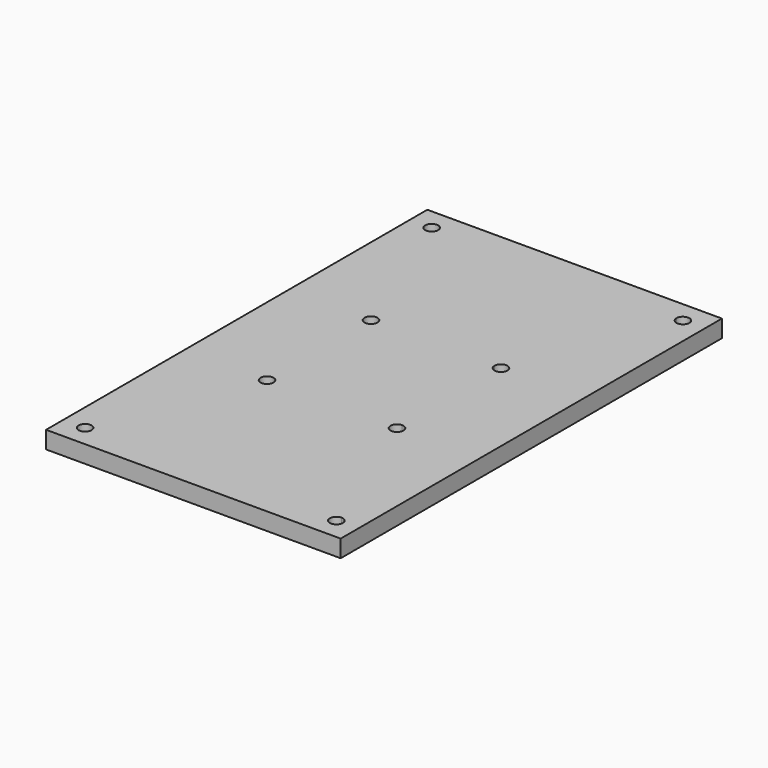
from build123d import *

# Parameters (mm, degrees)
F0_W     = 68
F0_H     = 110
F0_R     = 1.5
F1_DEPTH = 4


with BuildPart() as f1:
    # F0 (on Top) → F1 (new body)
    with BuildSketch(Plane.XY):
        Rectangle(F0_W, F0_H)
        with Locations((-29, -50)):
            Circle(F0_R, mode=Mode.SUBTRACT)
        with Locations((-15, -15)):
            Circle(F0_R, mode=Mode.SUBTRACT)
        with BuildLine():
            ThreePointArc((30.5, -50), (27.9393398282, -51.0606601718), (29, -48.5))
            ThreePointArc((29, -48.5), (30.0606601718, -48.9393398282), (30.5, -50))
        make_face(mode=Mode.SUBTRACT)
        with BuildLine():
            ThreePointArc((16.5, -15), (13.9393398282, -16.0606601718), (15, -13.5))
            ThreePointArc((15, -13.5), (16.0606601718, -13.9393398282), (16.5, -15))
        make_face(mode=Mode.SUBTRACT)
        with Locations((-15, 15)):
            Circle(F0_R, mode=Mode.SUBTRACT)
        with Locations((-29, 50)):
            Circle(F0_R, mode=Mode.SUBTRACT)
        with BuildLine():
            ThreePointArc((15, 13.5), (13.9393398282, 13.9393398282), (13.5, 15))
            ThreePointArc((13.5, 15), (15, 16.5), (16.5, 15))
            ThreePointArc((16.5, 15), (16.0606601718, 13.9393398282), (15, 13.5))
        make_face(mode=Mode.SUBTRACT)
        with BuildLine():
            ThreePointArc((29, 48.5), (27.9393398282, 48.9393398282), (27.5, 50))
            ThreePointArc((27.5, 50), (29, 51.5), (30.5, 50))
            ThreePointArc((30.5, 50), (30.0606601718, 48.9393398282), (29, 48.5))
        make_face(mode=Mode.SUBTRACT)
    extrude(amount=F1_DEPTH)


solid = f1.part
